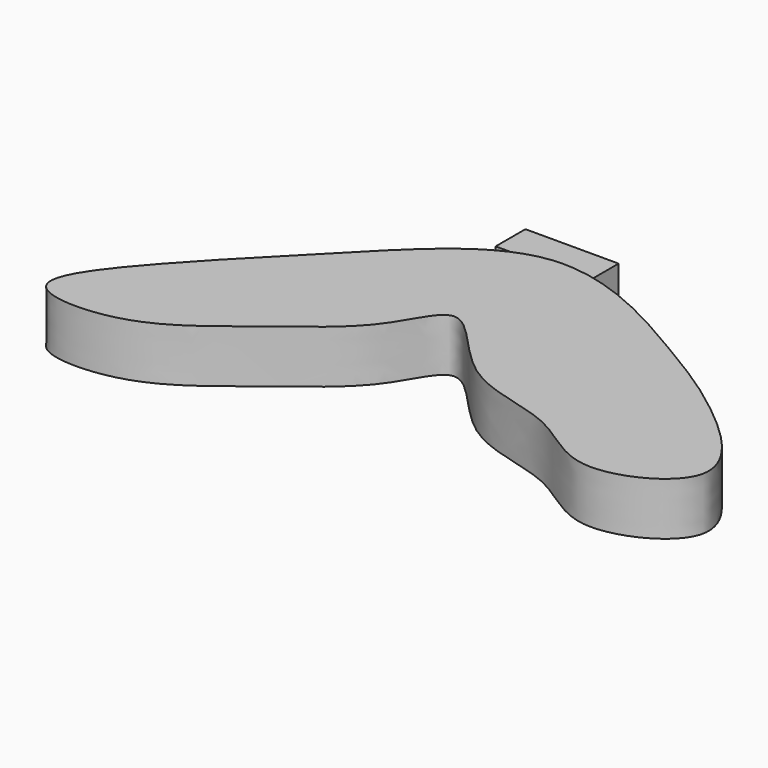
from build123d import *

# Parameters (mm, degrees)
F1_DEPTH = 4.318
F2_W     = 7.62
F2_H     = 3.81
F3_DEPTH = 3.048


with BuildPart() as f1:
    # F0 (on Top) → F1 (new body)
    with BuildSketch(Plane.XY):
        with BuildLine():
            add(Edge.make_bspline(
                [(0, 0), (-4.2756253163, -0.4428847294), (-11.227774789, -7.8349099243), (-19.1244955212, -15.5559966968), (-25.7355914676, -24.0308808809), (-15.2637815708, -24.3760358013), (-8.9407815701, -18.5830233001), (-2.701027216, -14.4704580585), (-0.165912231, -7.4453628385), (5.5034813397, -16.6605746893), (13.8425314374, -16.8501711643), (18.7832017209, -22.5534854758), (29.3253702155, -17.3071469453), (20.1937266544, -8.9196067366), (13.7631298279, -5.0222890439), (4.4050342472, 0.4562893744), (0, 0)],
                knots=[0, 0, 0, 0, 0.0888085156, 0.1753405179, 0.2400347907, 0.3029348981, 0.3761668134, 0.4441425712, 0.4962094767, 0.5635863826, 0.6333702248, 0.696331142, 0.7627592803, 0.8355237345, 0.9085035466, 1, 1, 1, 1], degree=3))
        make_face()
    extrude(amount=F1_DEPTH)

    # F2 (on Front) → F3 (join)
    with BuildSketch(Plane.XZ):
        with Locations((-0.8049300889, 1.905)):
            Rectangle(F2_W, F2_H)
    extrude(amount=-F3_DEPTH)


solid = f1.part
